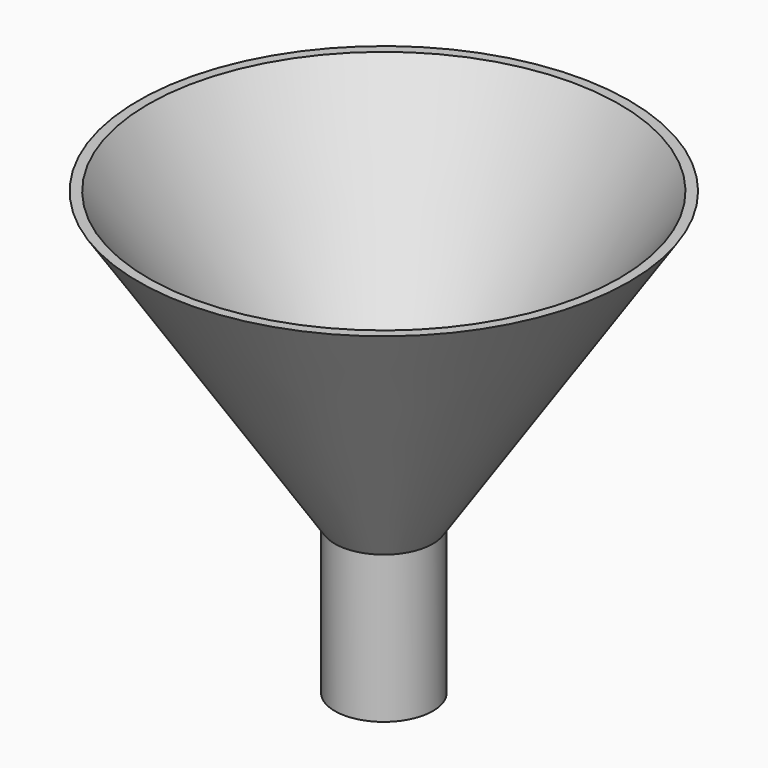
from build123d import *

# Parameters (mm, degrees)
CYLINDER001_R     = 4
CYLINDER001_DEPTH = 15
CYLINDER_R        = 5
CYLINDER_DEPTH    = 15


with BuildPart() as cilindre_interior:
    # Cone001 → Cone001 (revolve)
    with BuildSketch(Plane.XZ):
        Polygon((0, 0), (4, 0), (24, 30), (0, 30), align=None)
    revolve(axis=Axis((0, 0, 0), (0, 0, 1)))


with BuildPart() as cut:
    # Cone → Cone (revolve)
    with BuildSketch(Plane.XZ):
        Polygon((0, 0), (5, 0), (25, 30), (0, 30), align=None)
    revolve(axis=Axis((0, 0, 0), (0, 0, 1)))

    # Cut: cut cilindre_interior
    add(cilindre_interior.part, mode=Mode.SUBTRACT)


with BuildPart() as cut_1:
    # Cut placement: moved
    add(cut.part.moved(Location((0, 0, 15))))


with BuildPart() as cylinder001:
    # Cylinder001 → Cylinder001 (new body)
    with BuildSketch(Plane.XY):
        Circle(CYLINDER001_R)
    extrude(amount=CYLINDER001_DEPTH)


with BuildPart() as cut001:
    # Cylinder → Cylinder (new body)
    with BuildSketch(Plane.XY):
        Circle(CYLINDER_R)
    extrude(amount=CYLINDER_DEPTH)

    # Cut001: cut Cylinder001
    add(cylinder001.part, mode=Mode.SUBTRACT)


solid = Compound([cut_1.part, cut001.part])
